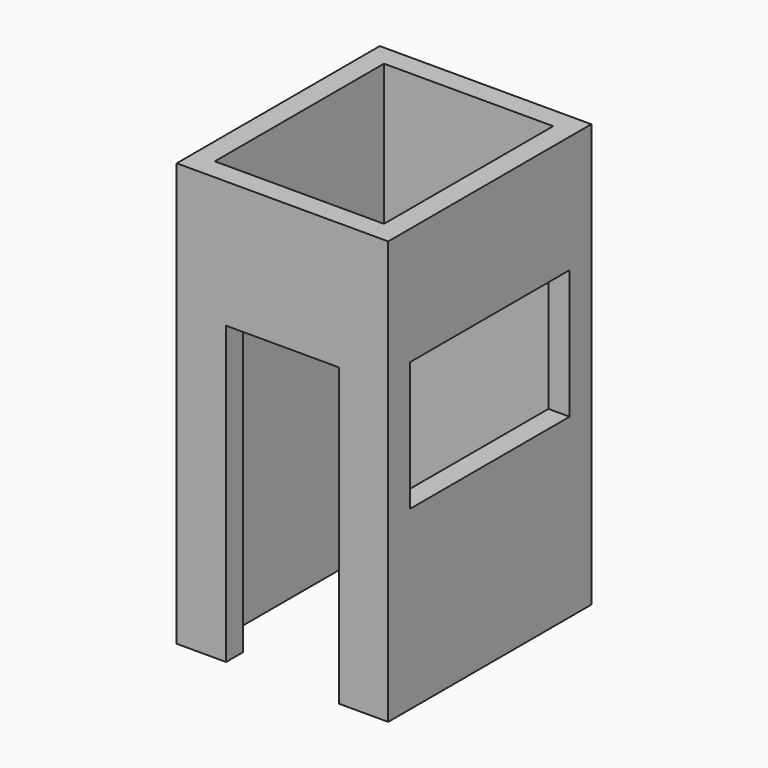
from build123d import *

# Parameters (mm, degrees)
F0_W     = 1524
F0_H     = 1828.8
F1_DEPTH = 3048
F2_W     = 1219.2
F2_H     = 1524
F3_DEPTH = 3048
F4_W     = 812.8
F4_H     = 2133.6
F5_DEPTH = 203.2
F6_W     = 1438.667654
F6_H     = 930.172921
F7_DEPTH = 203.2


with BuildPart() as f1:
    # F0 (on Top) → F1 (new body)
    with BuildSketch(Plane.XY):
        Rectangle(F0_W, F0_H)
    extrude(amount=F1_DEPTH)

    # F2 (on face) → F3 (cut)
    with BuildSketch(Plane.XY.offset(3048)):
        Rectangle(F2_W, F2_H)
    extrude(amount=-F3_DEPTH, mode=Mode.SUBTRACT)

    # F4 (on face) → F5 (cut)
    with BuildSketch(Plane.XZ.offset(914.4)):
        with Locations((0, 1066.8)):
            Rectangle(F4_W, F4_H)
    extrude(amount=-F5_DEPTH, mode=Mode.SUBTRACT)

    # F6 (on face) → F7 (cut)
    with BuildSketch(Plane.YZ.offset(762)):
        with Locations((0, 1737.046718)):
            Rectangle(F6_W, F6_H)
    extrude(amount=-F7_DEPTH, mode=Mode.SUBTRACT)


solid = f1.part
